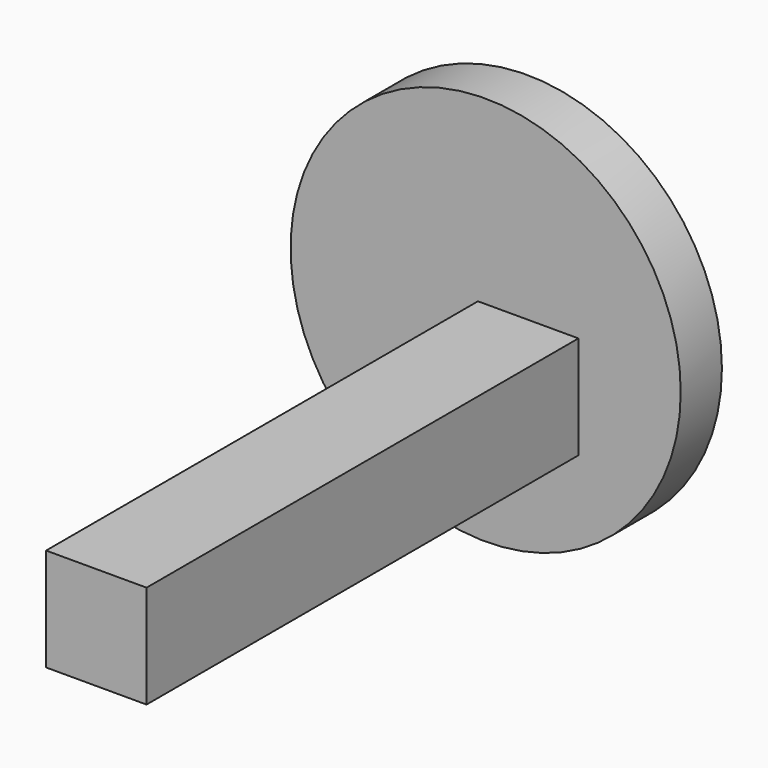
from build123d import *

# Parameters (mm, degrees)
F0_W     = 2.479451
F0_H     = 14.59062
F1_DEPTH = 2.54
F2_R     = 4.813733
F3_DEPTH = 1.27


with BuildPart() as f1:
    # F0 (on Top) → F1 (new body)
    with BuildSketch(Plane.XY):
        with Locations((-1.239726, -7.29531)):
            Rectangle(F0_W, F0_H)
    extrude(amount=F1_DEPTH)

    # F2 (on Front) → F3 (join)
    with BuildSketch(Plane.XZ):
        with Locations((-2.288725, 2.193361)):
            Circle(F2_R)
    extrude(amount=F3_DEPTH)


solid = f1.part
